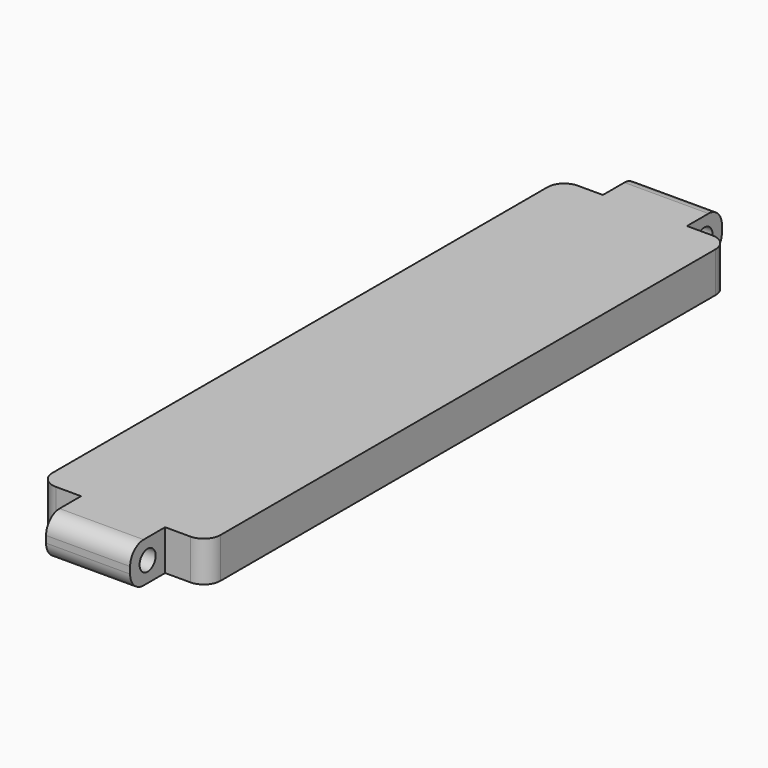
from build123d import *

# Parameters (mm, degrees)
F1_DEPTH = 12
F2_R     = 3
F3_DEPTH = 37.501
F4_R     = 3
F5_DEPTH = 37.501
F6_R     = 5


with BuildPart() as f1:
    # F0 (on Top) → F1 (new body)
    with BuildSketch(Plane.XY):
        Polygon((-16.078127, 165.7075), (-41.078127, 165.7075), (-41.078127, 152.7075), (-53.578127, 152.7075), (-53.578127, -41.2925), (-41.078127, -41.2925), (-41.078127, -54.2925), (-16.078127, -54.2925), (-16.078127, -41.2925), (-3.578127, -41.2925), (-3.578127, 152.7075), (-16.078127, 152.7075), align=None)
    extrude(amount=F1_DEPTH)

    # F2 (on face) → F3 (cut, through all)
    with BuildSketch(Plane(origin=(-41.078127, 0, 0), x_dir=(0, -1, 0), z_dir=(-1, 0, 0))):
        with Locations((-159.2075, 6)):
            Circle(F2_R)
    extrude(amount=-F3_DEPTH, mode=Mode.SUBTRACT)

    # F4 (on face) → F5 (cut, through all)
    with BuildSketch(Plane(origin=(-41.078127, 0, 0), x_dir=(0, -1, 0), z_dir=(-1, 0, 0))):
        with Locations((47.7925, 6)):
            Circle(F4_R)
    extrude(amount=-F5_DEPTH, mode=Mode.SUBTRACT)

    # F6
    f6_edges = [f1.edges().sort_by_distance(p)[0] for p in [
        (-28.578127, -54.2925, 12),
        (-28.578127, -54.2925, 0),
        (-28.578127, 165.7075, 12),
        (-28.578127, 165.7075, 0),
        (-3.578127, 152.7075, 6),
        (-53.578127, 152.7075, 6),
        (-53.578127, -41.2925, 6),
        (-3.578127, -41.2925, 6),
    ]]
    fillet(f6_edges, radius=F6_R)


solid = f1.part
